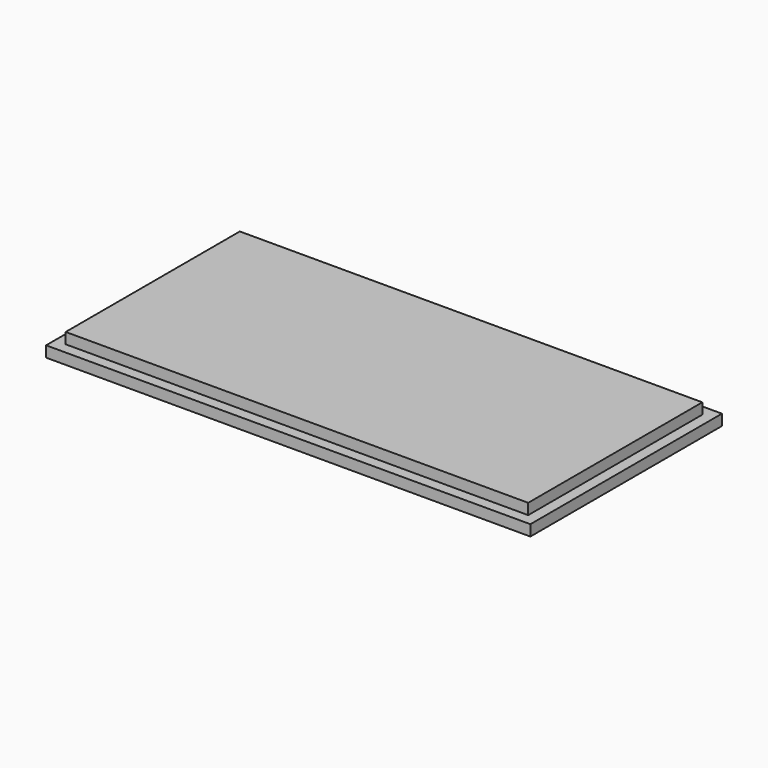
from build123d import *

# Parameters (mm, degrees)
SKETCH_W     = 178
SKETCH_H     = 88
PAD_DEPTH    = 4
SKETCH001_W  = 170
SKETCH001_H  = 80
PAD001_DEPTH = 4


with BuildPart() as part:
    # Sketch → Pad (new body)
    with BuildSketch(Plane.XY):
        with Locations((89, 44)):
            Rectangle(SKETCH_W, SKETCH_H)
    extrude(amount=PAD_DEPTH)

    # Sketch001 (on Face6 of Pad) → Pad001 (join)
    with BuildSketch(Plane.XY.offset(4)):
        with Locations((89, 44)):
            Rectangle(SKETCH001_W, SKETCH001_H)
    extrude(amount=PAD001_DEPTH)


solid = part.part
